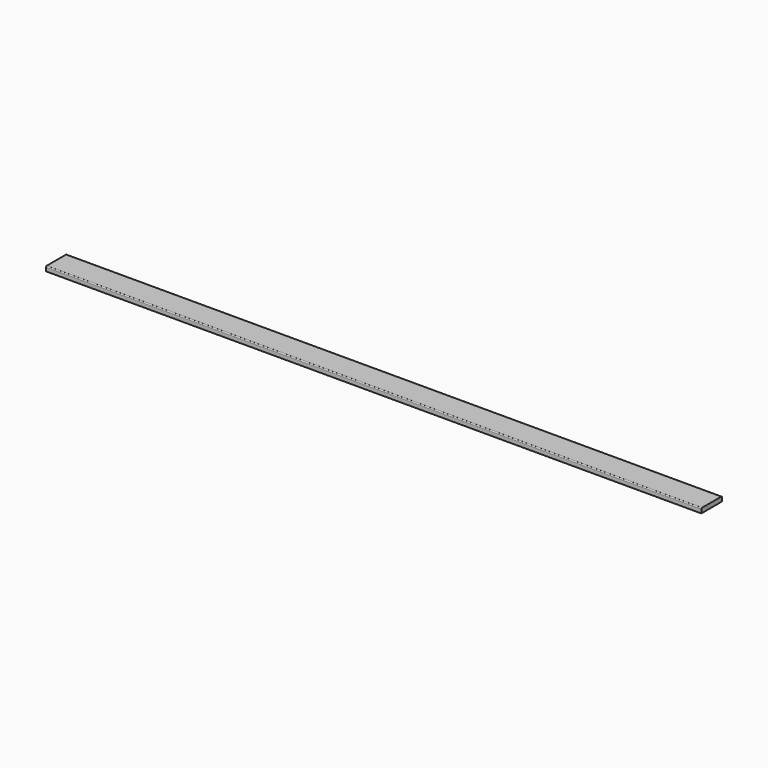
from build123d import *

# Parameters (mm, degrees)
F0_W     = 3556
F0_H     = 139.7
F1_DEPTH = 25.4
F2_R     = 5.08
F3_R     = 5.08


with BuildPart() as f1:
    # F0 (on Top) → F1 (new body)
    with BuildSketch(Plane.XY):
        Rectangle(F0_W, F0_H)
    extrude(amount=F1_DEPTH)

    # F2
    f2_edges = [f1.edges().sort_by_distance(p)[0] for p in [
        (0, -69.85, 25.4),
    ]]
    fillet(f2_edges, radius=F2_R)

    # F3
    f3_edges = [f1.edges().sort_by_distance(p)[0] for p in [
        (0, 69.85, 25.4),
    ]]
    fillet(f3_edges, radius=F3_R)


solid = f1.part
